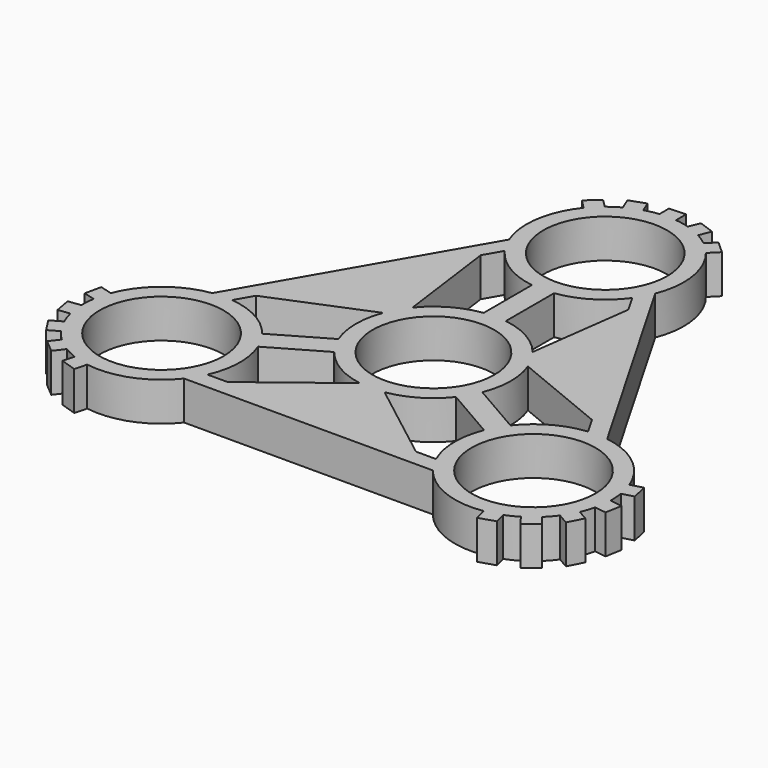
from build123d import *

# Parameters (mm, degrees)
F0_R     = 11.2
F0_R_2   = 11
F1_DEPTH = 7
F3_DEPTH = 6.8


with BuildPart() as f1:
    # F0 (on Top) → F1 (new body)
    with BuildSketch(Plane.XY):
        with BuildLine():
            Line((-12.6559794838, 49.3346591402), (-11.0453985259, 47.7240781823))
            ThreePointArc((-11.0453985259, 47.7240781823), (-14.0378256841, 40.9399649675), (-13.2027236571, 33.572372619))
            Line((-13.2027236571, 33.572372619), (-35.6758893819, -5.3522922233))
            ThreePointArc((-35.6758893819, -5.3522922233), (-42.473962534, -8.3128688274), (-46.852963341, -14.2964433728))
            Line((-46.852963341, -14.2964433728), (-49.0530578444, -13.7069298274))
            Line((-49.0530578444, -13.7069298274), (-49.6863089117, -16.6430792565))
            Line((-49.6863089117, -16.6430792565), (-47.6294204763, -17.1942208517))
            ThreePointArc((-47.6294204763, -17.1942208517), (-47.7713823768, -18.4712755649), (-47.7973240691, -19.7559346444))
            Line((-47.7973240691, -19.7559346444), (-50.0555434173, -20.0532348617))
            Line((-50.0555434173, -20.0532348617), (-49.5169753758, -23.0082179156))
            Line((-49.5169753758, -23.0082179156), (-47.4057454924, -22.7302692285))
            ThreePointArc((-47.4057454924, -22.7302692285), (-47.0481935057, -23.9644404073), (-46.5805427582, -25.1612380929))
            Line((-46.5805427582, -25.1612380929), (-48.5530935264, -26.3000908099))
            Line((-48.5530935264, -26.3000908099), (-46.9246984783, -28.8240381057))
            Line((-46.9246984783, -28.8240381057), (-45.0805427582, -27.7593143042))
            ThreePointArc((-45.0805427582, -27.7593143042), (-44.277910933, -28.7627105744), (-43.3878633329, -29.6894452675))
            Line((-43.3878633329, -29.6894452675), (-44.6841888987, -31.3788496362))
            Line((-44.6841888987, -31.3788496362), (-42.3943825269, -33.3227547688))
            Line((-42.3943825269, -33.3227547688), (-41.0078033121, -31.5157295545))
            ThreePointArc((-41.0078033121, -31.5157295545), (-39.8822850679, -32.1355929298), (-38.705342294, -32.6511776742))
            Line((-38.705342294, -32.6511776742), (-39.2564838892, -34.7080661095))
            Line((-39.2564838892, -34.7080661095), (-36.3970783606, -35.6277293129))
            Line((-36.3970783606, -35.6277293129), (-35.8075648151, -33.4276348095))
            ThreePointArc((-35.8075648151, -33.4276348095), (-28.4361368498, -32.6270961401), (-22.4731657248, -28.2200803957))
            Line((-22.4731657248, -28.2200803957), (22.4731657248, -28.2200803957))
            ThreePointArc((22.4731657248, -28.2200803957), (28.4361368498, -32.6270961401), (35.8075648151, -33.4276348095))
            Line((35.8075648151, -33.4276348095), (36.3970783606, -35.6277293129))
            Line((36.3970783606, -35.6277293129), (39.2564838892, -34.7080661095))
            Line((39.2564838892, -34.7080661095), (38.705342294, -32.6511776742))
            ThreePointArc((38.705342294, -32.6511776742), (39.8822850679, -32.1355929298), (41.0078033121, -31.5157295545))
            Line((41.0078033121, -31.5157295545), (42.3943825269, -33.3227547688))
            Line((42.3943825269, -33.3227547688), (44.6841888987, -31.3788496362))
            Line((44.6841888987, -31.3788496362), (43.3878633329, -29.6894452675))
            ThreePointArc((43.3878633329, -29.6894452675), (44.277910933, -28.7627105744), (45.0805427582, -27.7593143042))
            Line((45.0805427582, -27.7593143042), (47.0530935264, -28.8981670212))
            Line((47.0530935264, -28.8981670212), (48.4246984783, -26.2259618943))
            Line((48.4246984783, -26.2259618943), (46.5805427582, -25.1612380929))
            ThreePointArc((46.5805427582, -25.1612380929), (47.0481935057, -23.9644404073), (47.4057454924, -22.7302692285))
            Line((47.4057454924, -22.7302692285), (49.5169753758, -23.0082179156))
            Line((49.5169753758, -23.0082179156), (50.0555434173, -20.0532348617))
            Line((50.0555434173, -20.0532348617), (47.7973240691, -19.7559346444))
            ThreePointArc((47.7973240691, -19.7559346444), (47.7713823768, -18.4712755649), (47.6294204763, -17.1942208517))
            Line((47.6294204763, -17.1942208517), (49.6863089117, -16.6430792565))
            Line((49.6863089117, -16.6430792565), (49.0530578444, -13.7069298274))
            Line((49.0530578444, -13.7069298274), (46.852963341, -14.2964433728))
            ThreePointArc((46.852963341, -14.2964433728), (42.473962534, -8.3128688274), (35.6758893819, -5.3522922233))
            Line((35.6758893819, -5.3522922233), (13.2027236571, 33.572372619))
            ThreePointArc((13.2027236571, 33.572372619), (14.0378256841, 40.9399649675), (11.0453985259, 47.7240781823))
            Line((11.0453985259, 47.7240781823), (12.6559794838, 49.3346591402))
            Line((12.6559794838, 49.3346591402), (10.4298250225, 51.3511453661))
            Line((10.4298250225, 51.3511453661), (8.9240781823, 49.8453985259))
            ThreePointArc((8.9240781823, 49.8453985259), (7.8890973089, 50.6068684947), (6.789520757, 51.2716641989))
            Line((6.789520757, 51.2716641989), (7.6611608904, 53.3759896304))
            Line((7.6611608904, 53.3759896304), (4.8327864772, 54.3870675519))
            Line((4.8327864772, 54.3870675519), (4.0178821595, 52.419714496))
            ThreePointArc((4.0178821595, 52.419714496), (2.7702825726, 52.7271509817), (1.5, 52.9205523971))
            Line((1.5, 52.9205523971), (1.5, 55.1982578311))
            Line((1.5, 55.1982578311), (-1.5, 55.05))
            Line((-1.5, 55.05), (-1.5, 52.9205523971))
            ThreePointArc((-1.5, 52.9205523971), (-2.7702825726, 52.7271509817), (-4.0178821595, 52.419714496))
            Line((-4.0178821595, 52.419714496), (-4.8327864772, 54.3870675519))
            Line((-4.8327864772, 54.3870675519), (-7.6611608904, 53.3759896304))
            Line((-7.6611608904, 53.3759896304), (-6.789520757, 51.2716641989))
            ThreePointArc((-6.789520757, 51.2716641989), (-7.8890973089, 50.6068684947), (-8.9240781823, 49.8453985259))
            Line((-8.9240781823, 49.8453985259), (-10.4298250225, 51.3511453661))
            Line((-10.4298250225, 51.3511453661), (-12.6559794838, 49.3346591402))
        make_face()
        with Locations((-33.6017856668, -19.4)):
            Circle(F0_R, mode=Mode.SUBTRACT)
        Polygon((-12.1033156734, -25.2200803957), (0.172366893, -16.0264908435), (12.1033156734, -25.2200803957), align=None, mode=Mode.SUBTRACT)
        with BuildLine():
            Line((-20.4268113342, -14.1028260993), (-11, -8.6602540378))
            ThreePointArc((-11, -8.6602540378), (-7.0988974128, -12.0667168494), (-2.2263110665, -13.8218500583))
            Line((-2.2263110665, -13.8218500583), (-17.0183247375, -25.2200803957))
            Line((-17.0183247375, -25.2200803957), (-20.649308522, -25.2200803957))
            ThreePointArc((-20.649308522, -25.2200803957), (-19.4046286997, -19.6841373792), (-20.4268113342, -14.1028260993))
        make_face(mode=Mode.SUBTRACT)
        with BuildLine():
            ThreePointArc((-13.0832288111, 4.9828830888), (-13.9995320382, -0.1144670736), (-13, -5.1961524227))
            Line((-13, -5.1961524227), (-22.4268113342, -10.6387244841))
            ThreePointArc((-22.4268113342, -10.6387244841), (-26.7492773718, -6.9628327153), (-32.1658845691, -5.2727855528))
            Line((-32.1658845691, -5.2727855528), (-30.3503926769, -2.1282613547))
            Line((-30.3503926769, -2.1282613547), (-13.0832288111, 4.9828830888))
        make_face(mode=Mode.SUBTRACT)
        with BuildLine():
            ThreePointArc((2.2263110665, -13.8218500583), (7.0988974128, -12.0667168494), (11, -8.6602540378))
            Line((11, -8.6602540378), (20.4268113342, -14.1028260993))
            ThreePointArc((20.4268113342, -14.1028260993), (19.4046286997, -19.6841373792), (20.649308522, -25.2200803957))
            Line((20.649308522, -25.2200803957), (17.0183247375, -25.2200803957))
            Line((17.0183247375, -25.2200803957), (2.2263110665, -13.8218500583))
        make_face(mode=Mode.SUBTRACT)
        with Locations((33.6017856668, -19.4)):
            Circle(F0_R, mode=Mode.SUBTRACT)
        with BuildLine():
            Line((22.4268113342, -10.6387244841), (13, -5.1961524227))
            ThreePointArc((13, -5.1961524227), (13.9995320382, -0.1144670736), (13.0832288111, 4.9828830888))
            Line((13.0832288111, 4.9828830888), (30.3503926769, -2.1282613547))
            Line((30.3503926769, -2.1282613547), (32.1658845691, -5.2727855528))
            ThreePointArc((32.1658845691, -5.2727855528), (26.7492773718, -6.9628327153), (22.4268113342, -10.6387244841))
        make_face(mode=Mode.SUBTRACT)
        Circle(F0_R_2, mode=Mode.SUBTRACT)
        Polygon((-15.7895724715, 23.091819041), (-13.9655316505, 7.8639713136), (-27.8928881448, 2.1282613547), align=None, mode=Mode.SUBTRACT)
        with BuildLine():
            Line((-2, 24.7415505834), (-2, 13.8564064606))
            ThreePointArc((-2, 13.8564064606), (-6.9006346255, 12.181183923), (-10.8569177445, 8.8389669695))
            Line((-10.8569177445, 8.8389669695), (-13.3320679394, 27.3483417504))
            Line((-13.3320679394, 27.3483417504), (-11.5165760472, 30.4928659485))
            ThreePointArc((-11.5165760472, 30.4928659485), (-7.3446486721, 26.6469700945), (-2, 24.7415505834))
        make_face(mode=Mode.SUBTRACT)
        with BuildLine():
            ThreePointArc((10.8569177445, 8.8389669695), (6.9006346255, 12.181183923), (2, 13.8564064606))
            Line((2, 13.8564064606), (2, 24.7415505834))
            ThreePointArc((2, 24.7415505834), (7.3446486721, 26.6469700945), (11.5165760472, 30.4928659485))
            Line((11.5165760472, 30.4928659485), (13.3320679394, 27.3483417504))
            Line((13.3320679394, 27.3483417504), (10.8569177445, 8.8389669695))
        make_face(mode=Mode.SUBTRACT)
        Polygon((27.8928881448, 2.1282613547), (13.7931647575, 8.1625195299), (15.7895724715, 23.091819041), align=None, mode=Mode.SUBTRACT)
        with Locations((0, 38.8)):
            Circle(F0_R, mode=Mode.SUBTRACT)
    extrude(amount=F1_DEPTH)

    # F2 (on face) → F3 (join)
    with BuildSketch(Plane.XY.offset(7)):
        Polygon((27.8928881448, 2.1282613547), (15.7895724715, 23.091819041), (13.7931647575, 8.1625195299), align=None)
        Polygon((-12.1033156734, -25.2200803957), (12.1033156734, -25.2200803957), (0.172366893, -16.0264908435), (-11.5165760472, -24.7806552747), align=None)
        Polygon((-13.9655316505, 7.8639713136), (-15.7895724715, 23.091819041), (-27.8928881448, 2.1282613547), align=None)
    extrude(amount=-F3_DEPTH)


solid = f1.part
